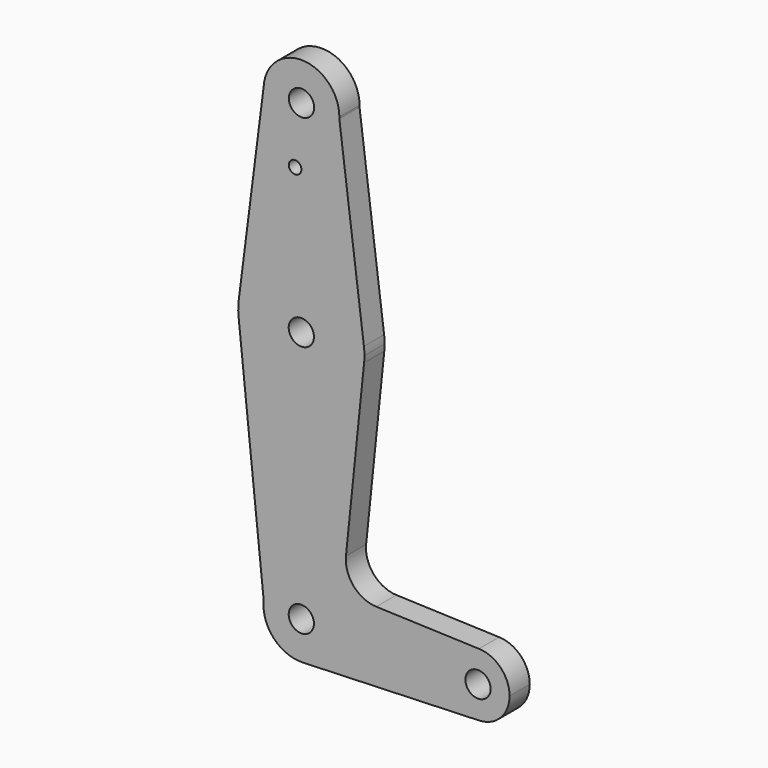
from build123d import *

# Parameters (mm, degrees)
F0_R     = 3.175
F0_R_2   = 1.5875
F1_DEPTH = 6.35


with BuildPart() as f1:
    # F0 (on Front) → F1 (new body)
    with BuildSketch(Plane.XZ):
        with BuildLine():
            ThreePointArc((0.34024, -73.018883), (6.854439, -70.113772), (9.525014, -63.499961))
            ThreePointArc((9.525014, -63.499961), (0.517595, -53.989034), (-9.468736, -62.46633))
            ThreePointArc((-9.468736, -62.46633), (-6.976488, -69.98487), (0.34024, -73.018883))
        make_face()
        with Locations((1.4e-05, -63.499961)):
            Circle(F0_R, mode=Mode.SUBTRACT)
        with BuildLine():
            ThreePointArc((-9.468736, -62.46633), (0.517595, -53.989034), (9.525014, -63.499961))
            ThreePointArc((9.525014, -63.499961), (6.854439, -70.113772), (0.34024, -73.018883))
            Line((0.34024, -73.018883), (44.669469, -71.434466))
            ThreePointArc((44.669469, -71.434466), (36.512502, -63.495435), (44.678596, -55.565793))
            Line((44.678596, -55.565793), (18.853, -54.642728))
            ThreePointArc((18.853, -54.642728), (13.139918, -51.916888), (11.228697, -45.882259))
            Line((11.228697, -45.882259), (15.791295, -1.62808))
            ThreePointArc((15.791295, -1.62808), (0.006474, -15.874999), (-15.789961, -1.640958))
            Line((-15.789961, -1.640958), (-9.468736, -62.46633))
        make_face()
        with BuildLine():
            ThreePointArc((-15.74798, 2.004183), (-15.873947, 0.182821), (-15.789961, -1.640958))
            ThreePointArc((-15.789961, -1.640958), (0.006474, -15.874999), (15.791295, -1.62808))
            ThreePointArc((15.791295, -1.62808), (15.85406, -0.815115), (15.875, 0))
            ThreePointArc((15.875, 0), (15.842921, 1.008708), (15.746812, 2.013339))
            ThreePointArc((15.746812, 2.013339), (-0.004615, 15.874999), (-15.74798, 2.004183))
        make_face()
        Circle(F0_R, mode=Mode.SUBTRACT)
        with BuildLine():
            ThreePointArc((44.678596, -55.565793), (36.512502, -63.495435), (44.669469, -71.434466))
            ThreePointArc((44.669469, -71.434466), (50.139726, -69.034523), (52.387501, -63.500001))
            ThreePointArc((52.387501, -63.500001), (50.142908, -57.968752), (44.678596, -55.565793))
        make_face()
        with Locations((44.450001, -63.500001)):
            Circle(F0_R, mode=Mode.SUBTRACT)
        with BuildLine():
            Line((-9.468391, 51.346407), (-15.74798, 2.004183))
            ThreePointArc((-15.74798, 2.004183), (-0.004615, 15.874999), (15.746812, 2.013339))
            Line((15.746812, 2.013339), (9.558254, 50.415554))
            ThreePointArc((9.558254, 50.415554), (-0.424197, 41.291985), (-9.468391, 51.346407))
        make_face()
        with Locations((-1.569617, 36.038321)):
            Circle(F0_R_2, mode=Mode.SUBTRACT)
        with BuildLine():
            ThreePointArc((9.566244, 50.805606), (0.311753, 60.326764), (-9.468391, 51.346407))
            ThreePointArc((-9.468391, 51.346407), (-0.424197, 41.291985), (9.558254, 50.415554))
            ThreePointArc((9.558254, 50.415554), (9.564246, 50.610539), (9.566244, 50.805606))
        make_face()
        with Locations((0.041244, 50.805606)):
            Circle(F0_R, mode=Mode.SUBTRACT)
    extrude(amount=F1_DEPTH)


solid = f1.part
